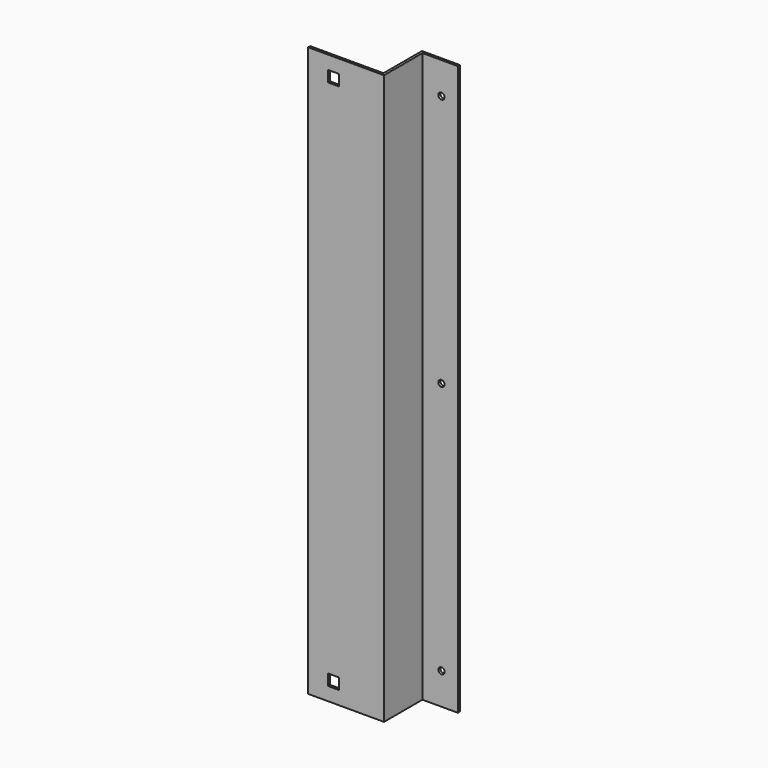
from build123d import *

# Parameters (mm, degrees)
F1_DEPTH = 285.75
F2_W     = 11.1125
F2_H     = 11.1125
F2_R     = 3.175
F3_DEPTH = 50.801


with BuildPart() as f1:
    # F0 (on Top) → F1 (new body, symmetric)
    with BuildSketch(Plane.XY):
        Polygon((-2.54, 50.8), (-2.54, 2.54), (-76.2, 2.54), (-76.2, 0), (0, 0), (0, 48.26), (35.56, 48.26), (35.56, 50.8), align=None)
    extrude(amount=F1_DEPTH, both=True)

    # F2 (on face) → F3 (cut, through all)
    with BuildSketch(Plane.XZ):
        with Locations((-50.8, 266.7)):
            Rectangle(F2_W, F2_H)
        with Locations((-50.8, -266.7)):
            Rectangle(F2_W, F2_H)
        with Locations((19.05, 254)):
            Circle(F2_R)
        with Locations((19.05, 0)):
            Circle(F2_R)
        with Locations((19.05, -254)):
            Circle(F2_R)
    extrude(amount=-F3_DEPTH, mode=Mode.SUBTRACT)


solid = f1.part
